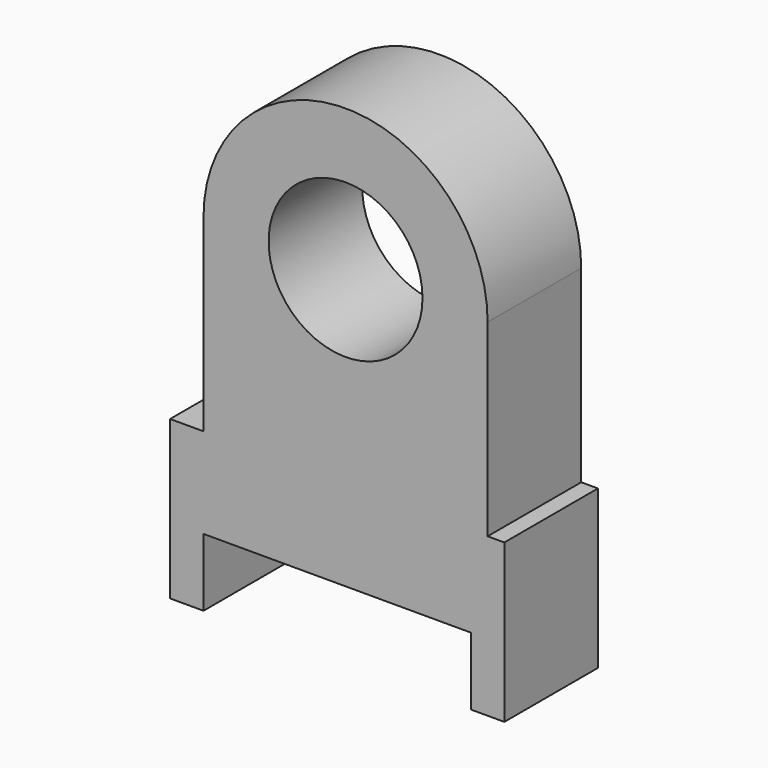
from build123d import *

# Parameters (mm, degrees)
F0_R     = 11.509602
F1_DEPTH = 17.5


with BuildPart() as f1:
    # F0 (on Front) → F1 (new body)
    with BuildSketch(Plane.XZ):
        with BuildLine():
            Line((-5, 0), (0, 0))
            Line((0, 0), (0, 23.633176))
            Line((0, 23.633176), (-2.5, 23.633176))
            Line((-2.5, 23.633176), (-2.5, 51.83411))
            ThreePointArc((-2.5, 51.83411), (-23.75, 73.08411), (-45, 51.83411))
            Line((-45, 51.83411), (-45, 23.633176))
            Line((-45, 23.633176), (-50, 23.633176))
            Line((-50, 23.633176), (-50, 0))
            Line((-50, 0), (-45, 0))
            Line((-45, 0), (-45, 10.128504))
            Line((-45, 10.128504), (-5, 10.128504))
            Line((-5, 10.128504), (-5, 0))
        make_face()
        with Locations((-23.75, 51.83411)):
            Circle(F0_R, mode=Mode.SUBTRACT)
    extrude(amount=F1_DEPTH)


solid = f1.part
